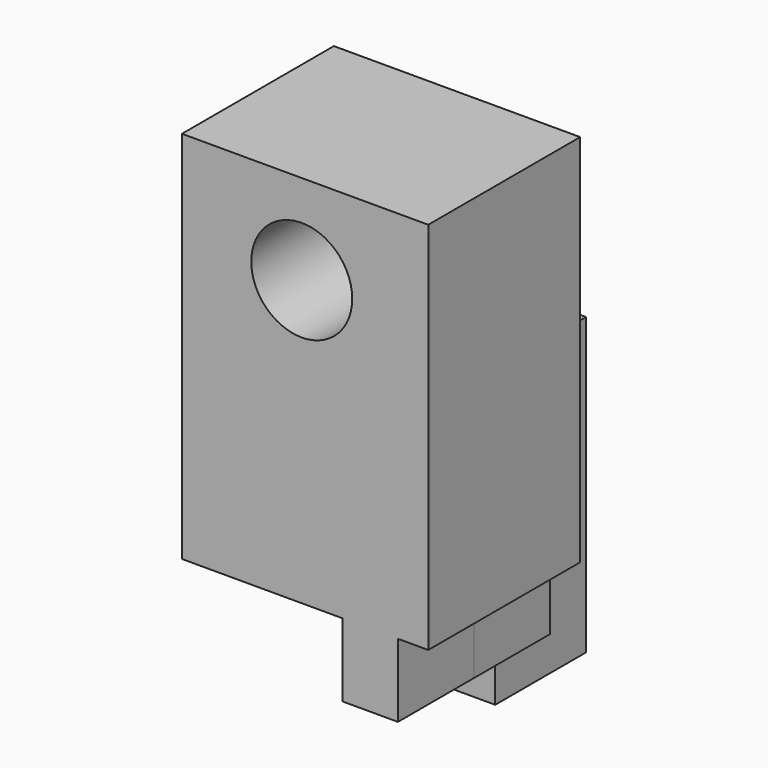
from build123d import *

# Parameters (mm, degrees)
F0_R      = 13.503105
F0_W      = 14.827031
F0_H      = 19.582872
F1_DEPTH  = 25.4
F1_FACE_R = 13.503105
F2_DEPTH  = 25.4
F3_W      = 30.36912
F3_H      = 79.002336
F4_DEPTH  = 25.4


with BuildPart() as f1:
    # F0 (on Front) → F1 (new body)
    with BuildSketch(Plane.XZ):
        Polygon((48.117902, -38.046706), (48.117902, 62.105667), (-17.778635, 62.105667), (-17.778635, -38.046706), (25.177971, -38.046706), (40.005002, -38.046706), align=None)
        with Locations((14.270158, 38.039379)):
            Circle(F0_R, mode=Mode.SUBTRACT)
        with Locations((32.591487, -47.838142)):
            Rectangle(F0_W, F0_H)
    extrude(amount=F1_DEPTH)

    # F1_face (on face) → F2 (join)
    with BuildSketch(Plane(origin=(16.051946, -25.4, 6.919351), x_dir=(1, 0, 0), z_dir=(0, -1, 0))):
        Polygon((32.065956, -44.966058), (32.065956, 55.186316), (-33.830581, 55.186316), (-33.830581, -44.966058), (9.126024, -44.966058), (9.126024, -64.548929), (23.953056, -64.548929), (23.953056, -44.966058), align=None)
        with Locations((-1.781788, 31.120028)):
            Circle(F1_FACE_R, mode=Mode.SUBTRACT)
    extrude(amount=F2_DEPTH)

    # F3 (on Right) → F4 (join)
    with BuildSketch(Plane.YZ):
        with Locations((15.18456, -39.501168)):
            Rectangle(F3_W, F3_H)
    extrude(amount=F4_DEPTH)


solid = f1.part
